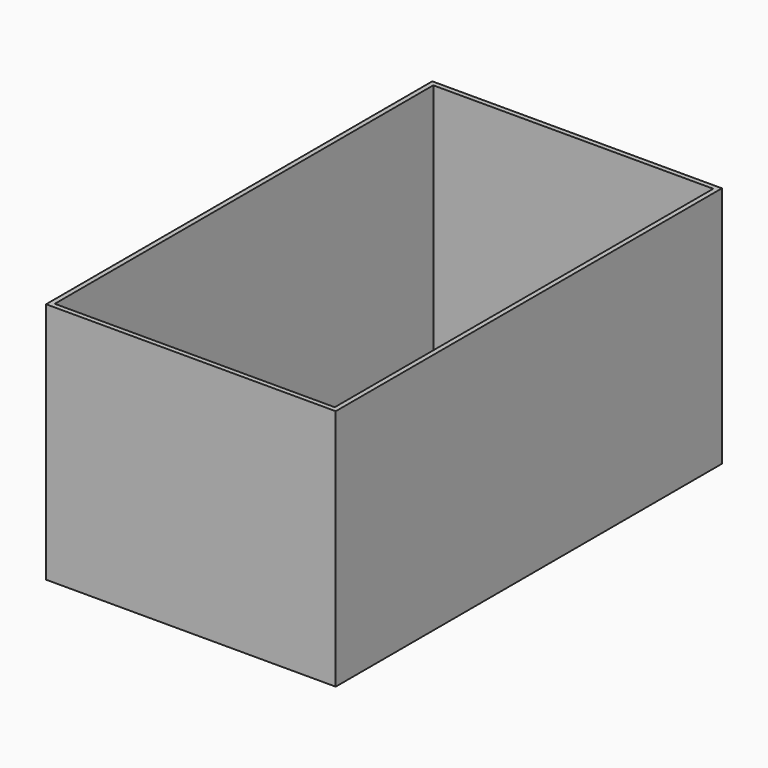
from build123d import *

# Parameters (mm, degrees)
F0_W     = 152.3854583502
F0_H     = 152.996212244
F1_DEPTH = 254
F2_W     = 152.3854583502
F2_H     = 254
F3_DEPTH = 25.4
F4_T     = -2.54


with BuildPart() as f1:
    # F0 (on Front) → F1 (new body)
    with BuildSketch(Plane.XZ):
        Rectangle(F0_W, F0_H)
    extrude(amount=F1_DEPTH)

    # F2 (on face) → F3 (cut)
    with BuildSketch(Plane.XY.offset(76.498106122)):
        with Locations((0, -127)):
            Rectangle(F2_W, F2_H)
    extrude(amount=-F3_DEPTH, mode=Mode.SUBTRACT)

    # F4
    f4_openings = [f1.faces().sort_by_distance(p)[0] for p in [
        (0, -127, 51.098106),
    ]]
    offset(amount=F4_T, openings=f4_openings)


solid = f1.part
